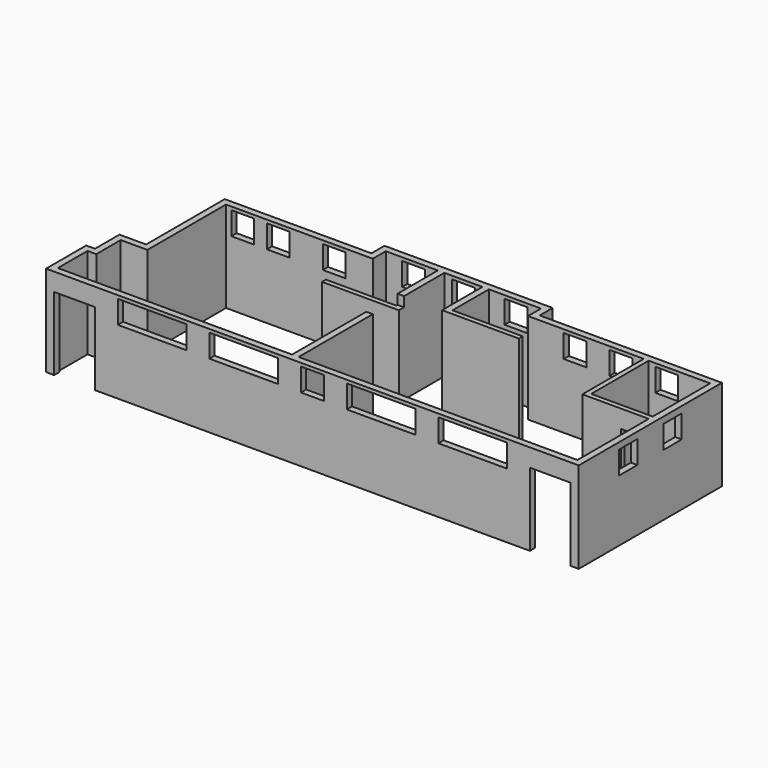
from build123d import *

# Parameters (mm, degrees)
F1_DEPTH  = 2800
F2_W      = 1250
F2_H      = 2250
F3_DEPTH  = 200
F4_W      = 1250
F4_H      = 2250
F5_DEPTH  = 200
F11_DEPTH = 2500
F13_DEPTH = 2800
F14_W     = 2111
F14_H     = 704
F14_W_2   = 704
F15_DEPTH = 200
F16_W     = 704
F16_H     = 704
F17_DEPTH = 200
F18_W     = 704
F18_H     = 704
F19_DEPTH = 200
F20_W     = 704
F20_H     = 704
F21_DEPTH = 200
F27_W     = 760
F27_H     = 2250
F28_DEPTH = 150
F29_W     = 705
F29_H     = 705
F30_DEPTH = 200
F32_DEPTH = 2800
F33_W     = 200
F33_H     = 1550
F33_H_2   = 2850
F34_DEPTH = 2800


with BuildPart() as f1:
    # F0 (on Top) → F1 (new body)
    with BuildSketch(Plane.XY):
        Polygon((0, 200), (0, 0), (16370, 0), (16370, 5500), (10770, 5500), (10770, 6000), (5600, 6000), (5600, 5500), (1090, 5500), (1090, 5300), (1090, 2480), (270, 2480), (270, 1540), (0, 1540), align=None)
        Polygon((1290, 5300), (5800, 5300), (5800, 5800), (10570, 5800), (10570, 5300), (16170, 5300), (16170, 200), (200, 200), (200, 1340), (470, 1340), (470, 2280), (936.407268, 2280), (1290, 2280), align=None, mode=Mode.SUBTRACT)
    extrude(amount=F1_DEPTH)

    # F2 (on face) → F3 (cut)
    with BuildSketch(Plane.XZ):
        with Locations((875, 1125)):
            Rectangle(F2_W, F2_H)
    extrude(amount=-F3_DEPTH, mode=Mode.SUBTRACT)

    # F4 (on face) → F5 (cut)
    with BuildSketch(Plane.XZ):
        with Locations((15495, 1125)):
            Rectangle(F4_W, F4_H)
    extrude(amount=-F5_DEPTH, mode=Mode.SUBTRACT)

    # F10 (on Top) → F11 (join)
    with BuildSketch(Plane.XY):
        Polygon((7600, 5800), (7400, 5800), (7400, 4200), (5240, 4200), (5240, 4050), (7600, 4050), align=None)
    extrude(amount=F11_DEPTH)

    # F12 (on Top) → F13 (join)
    with BuildSketch(Plane.XY):
        Polygon((14280, 5300), (14130, 5300), (14130, 2940), (16170, 2940), (16170, 3090), (14280, 3090), align=None)
    extrude(amount=F13_DEPTH)

    # F14 (on face) → F15 (cut)
    with BuildSketch(Plane.XZ):
        with Locations((3259.5, 2348)):
            Rectangle(F14_W, F14_H)
        with Locations((6073.5, 2348)):
            Rectangle(F14_W, F14_H)
        with Locations((8185, 2348)):
            Rectangle(F14_W_2, F14_H)
        with Locations((10296.5, 2348)):
            Rectangle(F14_W, F14_H)
        with Locations((13111.5, 2348)):
            Rectangle(F14_W, F14_H)
    extrude(amount=-F15_DEPTH, mode=Mode.SUBTRACT)

    # F16 (on face) → F17 (cut)
    with BuildSketch(Plane(origin=(0, 5500, 0), x_dir=(-1, 0, 0), z_dir=(0, 1, 0))):
        with Locations((-14835, 2348)):
            Rectangle(F16_W, F16_H)
        with Locations((-13427, 2348)):
            Rectangle(F16_W, F16_H)
        with Locations((-12019, 2348)):
            Rectangle(F16_W, F16_H)
    extrude(amount=-F17_DEPTH, mode=Mode.SUBTRACT)

    # F18 (on face) → F19 (cut)
    with BuildSketch(Plane(origin=(0, 6000, 0), x_dir=(-1, 0, 0), z_dir=(0, 1, 0))):
        with Locations((-9798, 2348)):
            Rectangle(F18_W, F18_H)
        with Locations((-8184, 2348)):
            Rectangle(F18_W, F18_H)
        with Locations((-6653, 2348)):
            Rectangle(F18_W, F18_H)
    extrude(amount=-F19_DEPTH, mode=Mode.SUBTRACT)

    # F20 (on face) → F21 (cut)
    with BuildSketch(Plane(origin=(0, 5500, 0), x_dir=(-1, 0, 0), z_dir=(0, 1, 0))):
        with Locations((-4617, 2348)):
            Rectangle(F20_W, F20_H)
        with Locations((-2896, 2348)):
            Rectangle(F20_W, F20_H)
        with Locations((-1804, 2348)):
            Rectangle(F20_W, F20_H)
    extrude(amount=-F21_DEPTH, mode=Mode.SUBTRACT)

    # F27 (on face) → F28 (cut)
    with BuildSketch(Plane.XZ.offset(-2940)):
        with Locations((15690, 1125)):
            Rectangle(F27_W, F27_H)
    extrude(amount=-F28_DEPTH, mode=Mode.SUBTRACT)

    # F29 (on face) → F30 (cut)
    with BuildSketch(Plane.YZ.offset(16370)):
        with Locations((1897.5, 2247.5)):
            Rectangle(F29_W, F29_H)
        with Locations((3602.5, 2247.5)):
            Rectangle(F29_W, F29_H)
    extrude(amount=-F30_DEPTH, mode=Mode.SUBTRACT)

    # F9 (on Top) → F32 (join)
    with BuildSketch(Plane.XY):
        Polygon((8969.008636, 4400), (8969.008636, 5800), (8769.008636, 5800), (8769.008636, 4250), (11129.008636, 4250), (11129.008636, 4400), align=None)
    extrude(amount=F32_DEPTH)

    # F33 (on Top) → F34 (join)
    with BuildSketch(Plane.XY):
        with Locations((7500, 5025)):
            Rectangle(F33_W, F33_H)
        with Locations((7500, 1625)):
            Rectangle(F33_W, F33_H_2)
    extrude(amount=F34_DEPTH)


solid = f1.part
